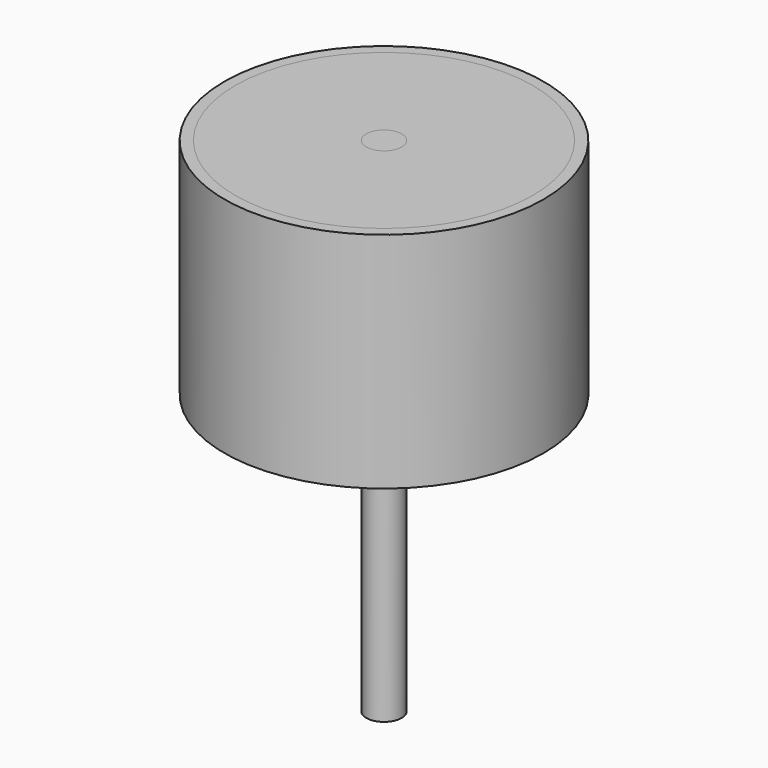
from build123d import *

# Parameters (mm, degrees)
F0_R     = 28.575
F0_R_2   = 26.65
F1_DEPTH = 40
F2_R     = 26.65
F2_R_2   = 3.175
F3_DEPTH = 7
F4_R     = 3.175
F5_DEPTH = 90


with BuildPart() as f1:
    # F0 (on Top) → F1 (new body)
    with BuildSketch(Plane.XY):
        Circle(F0_R)
        Circle(F0_R_2, mode=Mode.SUBTRACT)
    extrude(amount=F1_DEPTH)


with BuildPart() as f3:
    # F2 (on face) → F3 (new body)
    with BuildSketch(Plane.XY.offset(40)):
        Circle(F2_R)
        Circle(F2_R_2, mode=Mode.SUBTRACT)
    extrude(amount=-F3_DEPTH)


with BuildPart() as f5:
    # F4 (on face) → F5 (new body)
    with BuildSketch(Plane.XY.offset(40)):
        Circle(F4_R)
    extrude(amount=-F5_DEPTH)


solid = Compound([f1.part, f3.part, f5.part])
